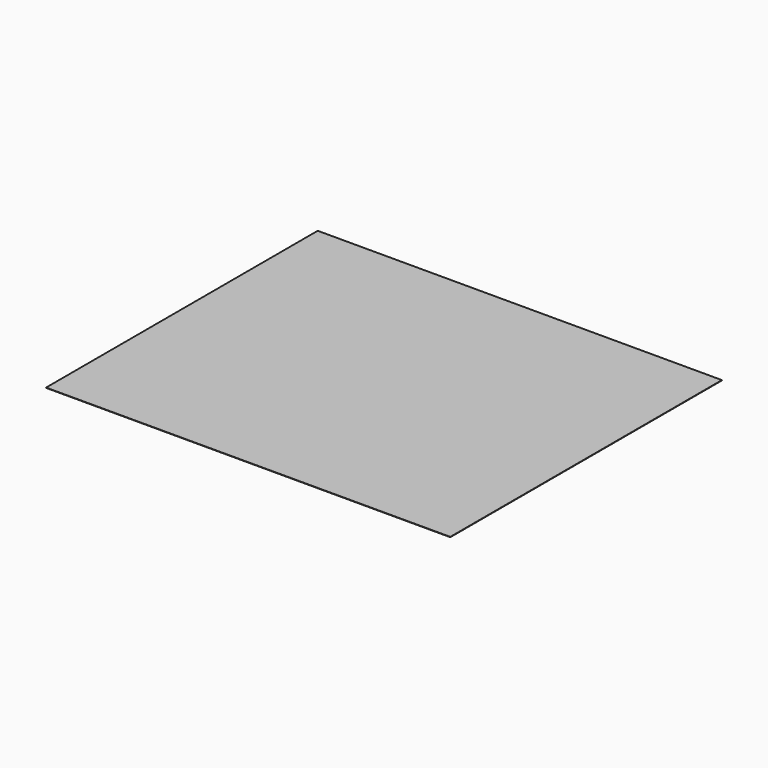
from build123d import *

# Parameters (mm, degrees)
BOX_W     = 250
BOX_H     = 210
BOX_DEPTH = 0.2


with BuildPart() as part:
    # Box → Box (new body)
    with BuildSketch(Plane.XY):
        with Locations((125, 105)):
            Rectangle(BOX_W, BOX_H)
    extrude(amount=BOX_DEPTH)


solid = part.part
